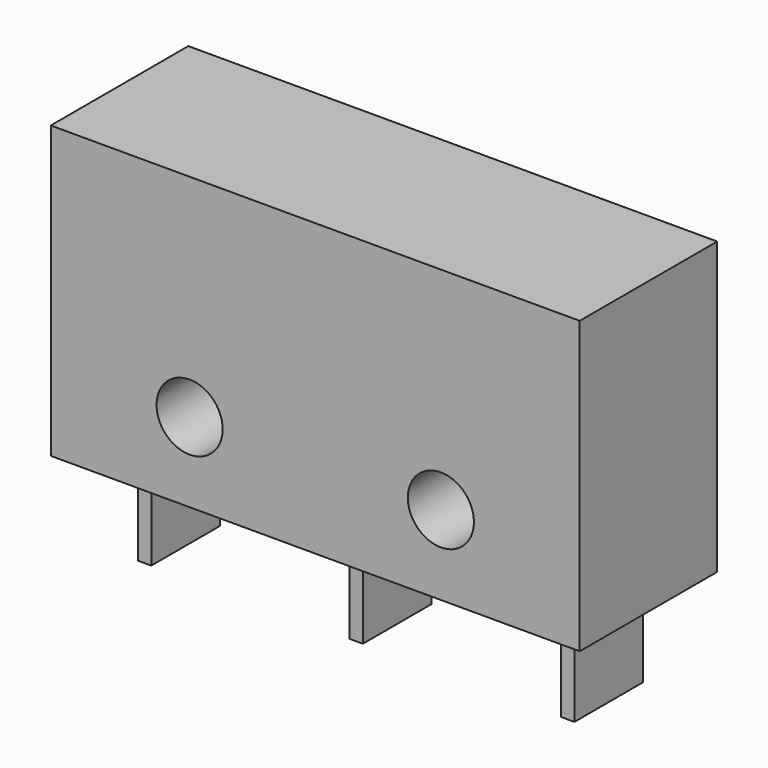
from build123d import *

# Parameters (mm, degrees)
BOX008_W          = 0.5
BOX008_H          = 3.25
BOX008_DEPTH      = 3.5
BOX010_W          = 0.5
BOX010_H          = 3.25
BOX010_DEPTH      = 3.5
BOX009_W          = 0.5
BOX009_H          = 3.25
BOX009_DEPTH      = 3.5
CYLINDER009_R     = 1.25
CYLINDER009_DEPTH = 6.5
CYLINDER008_R     = 1.25
CYLINDER008_DEPTH = 6.5
BOX007_W          = 20
BOX007_H          = 6.5
BOX007_DEPTH      = 11


with BuildPart() as obj1:
    # Box008 → Box008 (new body)
    with BuildSketch(Plane(origin=(4.75, 1.625, -6.5), x_dir=(1, 0, 0), z_dir=(0, 0, 1))):
        with Locations((0.25, 1.625)):
            Rectangle(BOX008_W, BOX008_H)
    extrude(amount=BOX008_DEPTH)


with BuildPart() as obj2:
    # Box010 → Box010 (new body)
    with BuildSketch(Plane(origin=(-3.25, 1.625, -6.5), x_dir=(1, 0, 0), z_dir=(0, 0, 1))):
        with Locations((0.25, 1.625)):
            Rectangle(BOX010_W, BOX010_H)
    extrude(amount=BOX010_DEPTH)


with BuildPart() as obj3:
    # Box009 → Box009 (new body)
    with BuildSketch(Plane(origin=(12.75, 1.625, -6.5), x_dir=(1, 0, 0), z_dir=(0, 0, 1))):
        with Locations((0.25, 1.625)):
            Rectangle(BOX009_W, BOX009_H)
    extrude(amount=BOX009_DEPTH)


with BuildPart() as limitswitchmountinghole002:
    # Cylinder009 → Cylinder009 (new body)
    with BuildSketch(Plane(origin=(9.5, 0, 0), x_dir=(1, 0, 0), z_dir=(0, 1, 0))):
        Circle(CYLINDER009_R)
    extrude(amount=CYLINDER009_DEPTH)


with BuildPart() as limitswitchmountinghole001:
    # Cylinder008 → Cylinder008 (new body)
    with BuildSketch(Plane(origin=(0, 0, 0), x_dir=(1, 0, 0), z_dir=(0, 1, 0))):
        Circle(CYLINDER008_R)
    extrude(amount=CYLINDER008_DEPTH)


with BuildPart() as obj4:
    # Box007 → Box007 (new body)
    with BuildSketch(Plane(origin=(-5.25, 0, -3), x_dir=(1, 0, 0), z_dir=(0, 0, 1))):
        with Locations((10, 3.25)):
            Rectangle(BOX007_W, BOX007_H)
    extrude(amount=BOX007_DEPTH)

    # Cut007: cut LimitSwitchMountingHole001
    add(limitswitchmountinghole001.part, mode=Mode.SUBTRACT)

    # Cut008: cut LimitSwitchMountingHole002
    add(limitswitchmountinghole002.part, mode=Mode.SUBTRACT)

    # Fusion005: union obj1, obj2, obj3
    add(obj1.part)
    add(obj2.part)
    add(obj3.part)


solid = obj4.part
